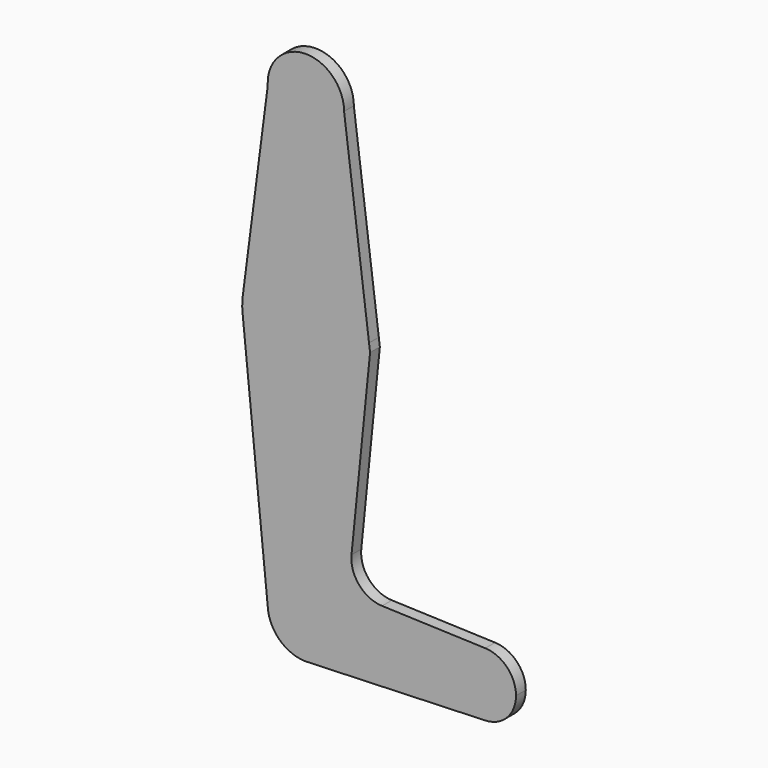
from build123d import *

# Parameters (mm, degrees)
F1_DEPTH = 3.048


with BuildPart() as f1:
    # F0 (on Front) → F1 (new body)
    with BuildSketch(Plane.XZ):
        with BuildLine():
            ThreePointArc((-9.5088332938, 50.2452798986), (0.2774778159, 41.2790425344), (9.525, 50.8))
            ThreePointArc((9.525, 50.8), (-0.2774778159, 60.3209574656), (-9.5088332938, 50.2452798986))
        make_face()
        with BuildLine():
            Line((15.747456912, 2.0082892734), (9.525, 50.8))
            ThreePointArc((9.525, 50.8), (0.2774778159, 41.2790425344), (-9.5088332938, 50.2452798986))
            Line((-9.5088332938, 50.2452798986), (-15.7438714448, 2.0362065048))
            ThreePointArc((-15.7438714448, 2.0362065048), (0.014073267, 15.874993762), (15.747456912, 2.0082892734))
        make_face()
        with BuildLine():
            ThreePointArc((15.875, 0), (15.8430821414, 1.0061676109), (15.747456912, 2.0082892734))
            ThreePointArc((15.747456912, 2.0082892734), (0.014073267, 15.874993762), (-15.7438714448, 2.0362065048))
            ThreePointArc((-15.7438714448, 2.0362065048), (-15.8734058534, 0.2249702482), (-15.795253659, -1.5892095044))
            ThreePointArc((-15.795253659, -1.5892095044), (0.7956045387, -15.8550508803), (15.875, 0))
        make_face()
        with BuildLine():
            Line((16.0035761028, 0), (15.747456912, 2.0082892734))
            ThreePointArc((15.747456912, 2.0082892734), (15.8430821414, 1.0061676109), (15.875, 0))
            ThreePointArc((15.875, 0), (0.7956045387, -15.8550508803), (-15.795253659, -1.5892095044))
            Line((-15.795253659, -1.5892095044), (-9.5064730457, -64.0937972986))
            ThreePointArc((-9.5064730457, -64.0937972986), (-0.2970431281, -53.9796328653), (9.525, -63.5))
            ThreePointArc((9.525, -63.5), (6.9705567315, -69.9912990883), (0.6773435479, -73.000885786))
            Line((0.6773435479, -73.000885786), (44.7324052746, -71.4324746146))
            ThreePointArc((44.7324052746, -71.4324746146), (36.5125, -63.5), (44.7324052746, -55.5675253854))
            Line((44.7324052746, -55.5675253854), (19.0040640169, -54.6515666677))
            ThreePointArc((19.0040640169, -54.6515666677), (13.2962223458, -51.9329867425), (11.3767906644, -45.9092075821))
            Line((11.3767906644, -45.9092075821), (16.0035761028, 0))
        make_face()
        with BuildLine():
            ThreePointArc((9.525, -63.5), (-0.2970431281, -53.9796328653), (-9.5064730457, -64.0937972986))
            ThreePointArc((-9.5064730457, -64.0937972986), (-6.5218749501, -70.4419573706), (0, -73.025))
            Line((0, -73.025), (0.6773435479, -73.000885786))
            ThreePointArc((0.6773435479, -73.000885786), (6.9705567315, -69.9912990883), (9.525, -63.5))
        make_face()
        with BuildLine():
            ThreePointArc((52.3875, -63.5), (50.1616327839, -57.9880895153), (44.7324052746, -55.5675253854))
            ThreePointArc((44.7324052746, -55.5675253854), (36.5125, -63.5), (44.7324052746, -71.4324746146))
            ThreePointArc((44.7324052746, -71.4324746146), (50.1616327839, -69.0119104847), (52.3875, -63.5))
        make_face()
    extrude(amount=F1_DEPTH)


solid = f1.part
